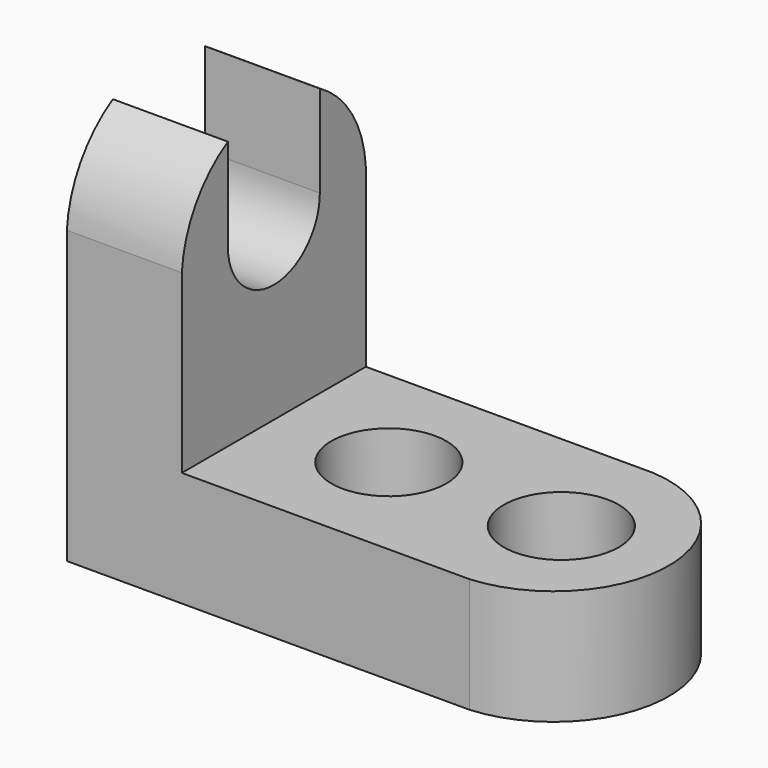
from build123d import *

# Parameters (mm, degrees)
F1_DEPTH = 25.4
F3_DEPTH = 25.4
F4_R     = 6.35
F5_DEPTH = 25.4


with BuildPart() as f1:
    # F0 (on Front) → F1 (new body)
    with BuildSketch(Plane.XZ):
        Polygon((0, 44.45), (0, 0), (57.15, 0), (57.15, 12.7), (12.7, 12.7), (12.7, 44.45), align=None)
    extrude(amount=F1_DEPTH)

    # F2 (on face) → F3 (cut)
    with BuildSketch(Plane.YZ.offset(12.7)):
        with BuildLine():
            ThreePointArc((-25.4, 32.1648232639), (-23.4956230285, 38.0400795664), (-19.05, 42.3274708663))
            Line((-19.05, 42.3274708663), (-19.05, 44.45))
            Line((-19.05, 44.45), (-25.4, 44.45))
            Line((-25.4, 44.45), (-25.4, 32.1648232639))
        make_face()
        with BuildLine():
            ThreePointArc((-19.05, 32.1648232639), (-12.7, 38.5148232639), (-6.35, 32.1648232639))
            Line((-6.35, 32.1648232639), (-6.35, 42.3274708663))
            ThreePointArc((-6.35, 42.3274708663), (-12.7, 44.0243544316), (-19.05, 42.3274708663))
            Line((-19.05, 42.3274708663), (-19.05, 32.1648232639))
        make_face()
        with BuildLine():
            ThreePointArc((-19.05, 42.3274708663), (-12.7, 44.0243544316), (-6.35, 42.3274708663))
            Line((-6.35, 42.3274708663), (-6.35, 44.45))
            Line((-6.35, 44.45), (-19.05, 44.45))
            Line((-19.05, 44.45), (-19.05, 42.3274708663))
        make_face()
        with BuildLine():
            ThreePointArc((-19.05, 32.1648232639), (-12.7, 25.8148232639), (-6.35, 32.1648232639))
            ThreePointArc((-6.35, 32.1648232639), (-12.7, 38.5148232639), (-19.05, 32.1648232639))
        make_face()
        with BuildLine():
            Line((-6.35, 44.45), (-6.35, 42.3274708663))
            ThreePointArc((-6.35, 42.3274708663), (-1.9043769715, 38.0400795664), (0, 32.1648232639))
            Line((0, 32.1648232639), (0, 44.45))
            Line((0, 44.45), (-6.35, 44.45))
        make_face()
    extrude(amount=-F3_DEPTH, mode=Mode.SUBTRACT)

    # F4 (on face) → F5 (cut)
    with BuildSketch(Plane.XY.offset(12.7)):
        with Locations((25.4, -12.7)):
            Circle(F4_R)
        with Locations((44.45, -12.7)):
            Circle(F4_R)
        with BuildLine():
            ThreePointArc((44.45, 0), (56.3249263826, -12.7), (44.45, -25.4))
            Line((44.45, -25.4), (57.15, -25.4))
            Line((57.15, -25.4), (57.15, 0))
            Line((57.15, 0), (44.45, 0))
        make_face()
    extrude(amount=-F5_DEPTH, mode=Mode.SUBTRACT)


solid = f1.part
